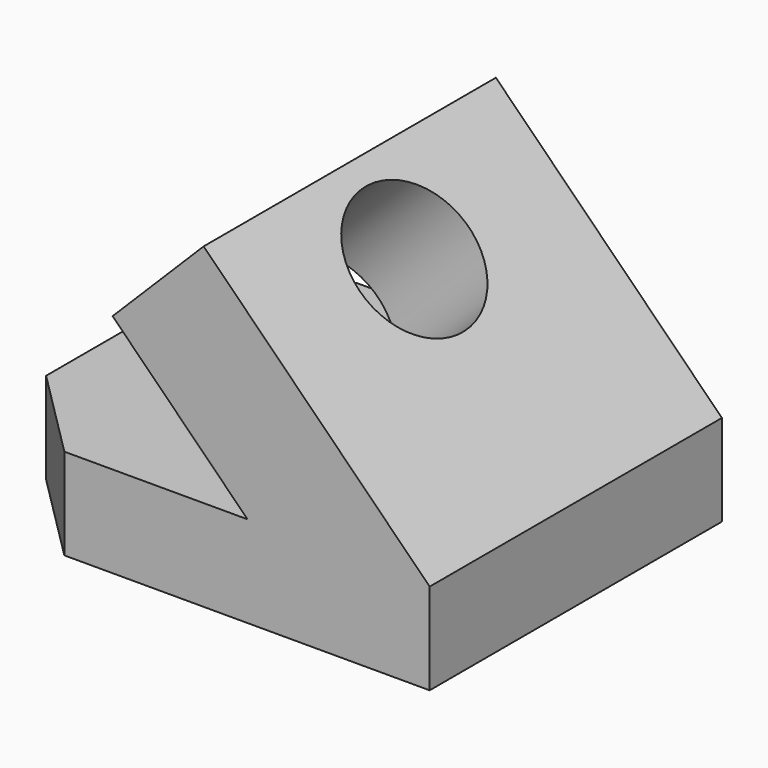
from build123d import *

# Parameters (mm, degrees)
F1_DEPTH = 50.8
F4_W     = 203.2
F4_H     = 177.8
F4_R     = 38.1
F5_DEPTH = 71.628


with BuildPart() as f1:
    # F0 (on Top) → F1 (new body)
    with BuildSketch(Plane.XY):
        Polygon((203.2, 0), (0, 0), (-50.8, -50.8), (-50.8, -152.4), (0, -203.2), (203.2, -203.2), align=None)
    extrude(amount=F1_DEPTH)

    # F4 (on 3pt) → F5 (join)
    with BuildSketch(Plane(origin=(127, 0, 127), x_dir=(0, -1, 0), z_dir=(-0.7071067812, 0, -0.7071067812))):
        with Locations((101.6, -18.8630734528)):
            Rectangle(F4_W, F4_H)
        with Locations((101.6, 19.2369265472)):
            Circle(F4_R, mode=Mode.SUBTRACT)
    extrude(amount=F5_DEPTH)


solid = f1.part
